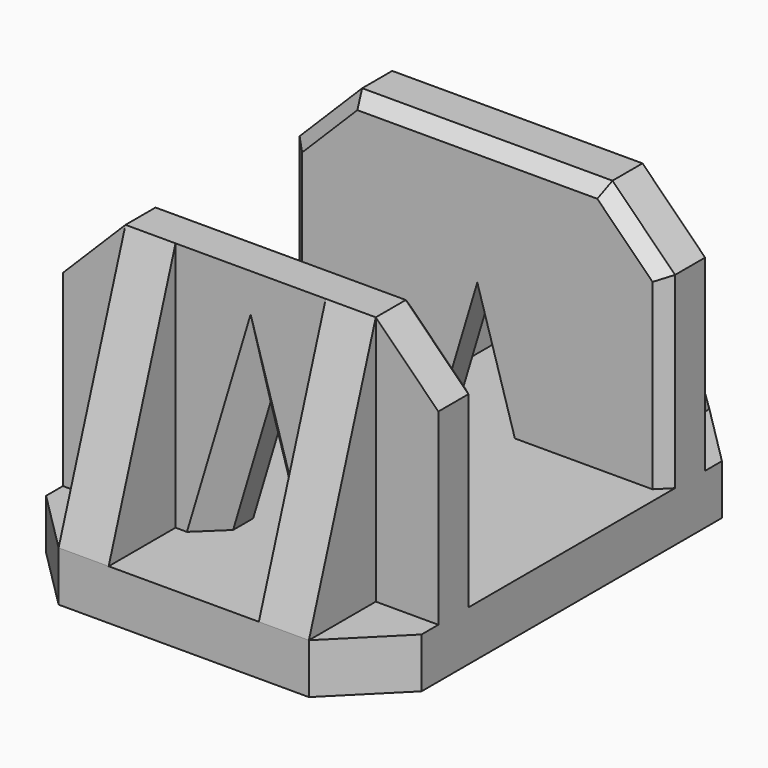
from build123d import *

# Parameters (mm, degrees)
F0_W     = 30
F0_H     = 40
F0_R     = 3
F1_DEPTH = 4
F3_DEPTH = 20
F5_DEPTH = 30.001
F6_SIZE  = 5
F8_DEPTH = 33.321
F9_SIZE2 = 2
F9_SIZE  = 2
F10_SIZE = 1


with BuildPart() as f1:
    # F0 (on Top) → F1 (new body)
    with BuildSketch(Plane.XY):
        Rectangle(F0_W, F0_H)
        Circle(F0_R, mode=Mode.SUBTRACT)
    extrude(amount=F1_DEPTH)

    # F2 (on face) → F3 (join)
    with BuildSketch(Plane.XY.offset(4)):
        Polygon((-15, 9.32), (15, 9.32), (15, 13.32), (10, 13.32), (10, 20), (6, 20), (6, 13.32), (-6, 13.32), (-6, 20), (-10, 20), (-10, 13.32), (-15, 13.32), align=None)
        Polygon((15, -13.32), (15, -9.32), (-15, -9.32), (-15, -13.32), (-10, -13.32), (-10, -20), (-6, -20), (-6, -13.32), (6, -13.32), (6, -20), (10, -20), (10, -13.32), align=None)
    extrude(amount=F3_DEPTH)

    # F4 (on face) → F5 (cut, through all)
    with BuildSketch(Plane(origin=(-15, 0, 0), x_dir=(0, -1, 0), z_dir=(-1, 0, 0))):
        Polygon((-20, 24), (-20, 4), (-13.32, 24), align=None)
        Polygon((20, 24), (13.32, 24), (20, 4), align=None)
    extrude(amount=-F5_DEPTH, mode=Mode.SUBTRACT)

    # F6
    f6_edges = [f1.edges().sort_by_distance(p)[0] for p in [
        (-15, 20, 2),
        (-15, -20, 2),
        (15, 20, 2),
        (15, -20, 2),
        (-15, 11.32, 24),
        (-15, -11.32, 24),
        (15, -11.32, 24),
        (15, 11.32, 24),
    ]]
    chamfer(f6_edges, length=F6_SIZE)

    # F7 (on face) → F8 (cut, through all)
    with BuildSketch(Plane.XZ.offset(13.32)):
        Polygon((0, 14), (-3, 4), (3, 4), align=None)
    extrude(amount=-F8_DEPTH, mode=Mode.SUBTRACT)

    # F9
    f9_edges = [f1.edges().sort_by_distance(p)[0] for p in [
        (-1.5, -13.32, 9),
        (1.5, -13.32, 9),
        (1.5, 13.32, 9),
        (-1.5, 13.32, 9),
    ]]
    chamfer(f9_edges, length=F9_SIZE, length2=F9_SIZE2)

    # F10
    f10_edges = [f1.edges().sort_by_distance(p)[0] for p in [
        (15, -9.32, 11.5),
        (12.5, -9.32, 21.5),
        (0, -9.32, 24),
        (-15, -9.32, 11.5),
        (-12.5, -9.32, 21.5),
        (-15, 9.32, 11.5),
        (-12.5, 9.32, 21.5),
        (0, 9.32, 24),
        (12.5, 9.32, 21.5),
        (15, 9.32, 11.5),
    ]]
    chamfer(f10_edges, length=F10_SIZE)


solid = f1.part
